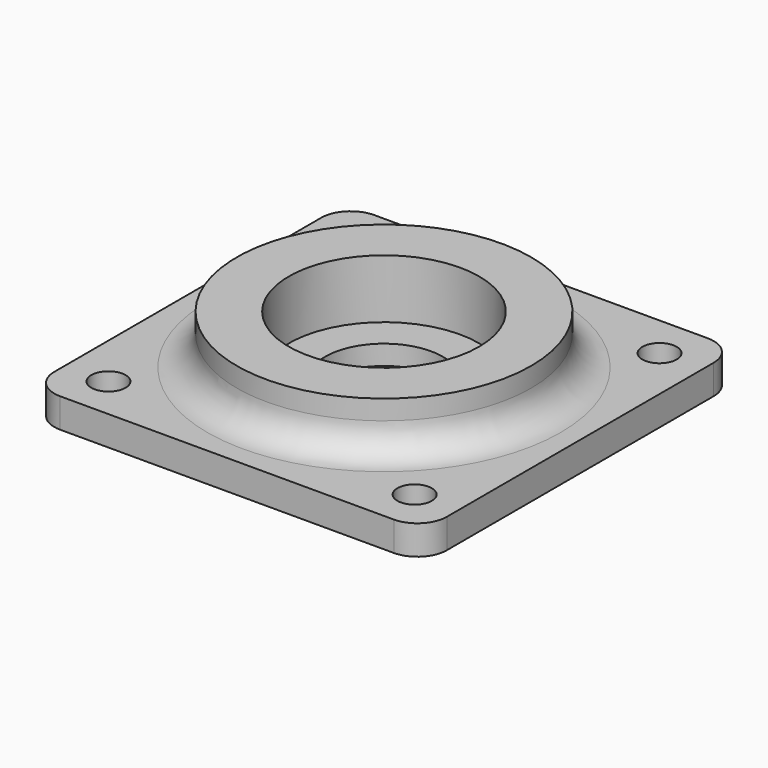
from build123d import *

# Parameters (mm, degrees)
SKETCH_W        = 40
SKETCH_H        = 40
SKETCH_R        = 6
SKETCH_R_2      = 1.75
PAD_DEPTH       = 8
SKETCH001_R     = 9.7
POCKET_DEPTH    = 6
SKETCH002_W     = 42
SKETCH002_H     = 42
SKETCH002_R     = 15
POCKET001_DEPTH = 5
FILLET_R        = 3
FILLET001_R     = 3


with BuildPart() as part:
    # Sketch → Pad (new body)
    with BuildSketch(Plane.XY):
        Rectangle(SKETCH_W, SKETCH_H)
        Circle(SKETCH_R, mode=Mode.SUBTRACT)
        with Locations((15.6, 15.6)):
            Circle(SKETCH_R_2, mode=Mode.SUBTRACT)
        with Locations((15.6, -15.6)):
            Circle(SKETCH_R_2, mode=Mode.SUBTRACT)
        with Locations((-15.6, -15.6)):
            Circle(SKETCH_R_2, mode=Mode.SUBTRACT)
        with Locations((-15.6, 15.6)):
            Circle(SKETCH_R_2, mode=Mode.SUBTRACT)
    extrude(amount=PAD_DEPTH)

    # Sketch001 → Pocket (cut)
    with BuildSketch(Plane.XY.offset(8)):
        Circle(SKETCH001_R)
    extrude(amount=-POCKET_DEPTH, mode=Mode.SUBTRACT)

    # Sketch002 → Pocket001 (cut)
    with BuildSketch(Plane.XY.offset(8)):
        Rectangle(SKETCH002_W, SKETCH002_H)
        Circle(SKETCH002_R, mode=Mode.SUBTRACT)
    extrude(amount=-POCKET001_DEPTH, mode=Mode.SUBTRACT)

    # Fillet
    fillet_edges = [part.edges().sort_by_distance(p)[0] for p in [
        (-15, 0, 3),
    ]]
    fillet(fillet_edges, radius=FILLET_R)

    # Fillet001
    fillet001_edges = [part.edges().sort_by_distance(p)[0] for p in [
        (-20, 20, 1.5),
        (20, 20, 1.5),
        (20, -20, 1.5),
        (-20, -20, 1.5),
    ]]
    fillet(fillet001_edges, radius=FILLET001_R)


solid = part.part
